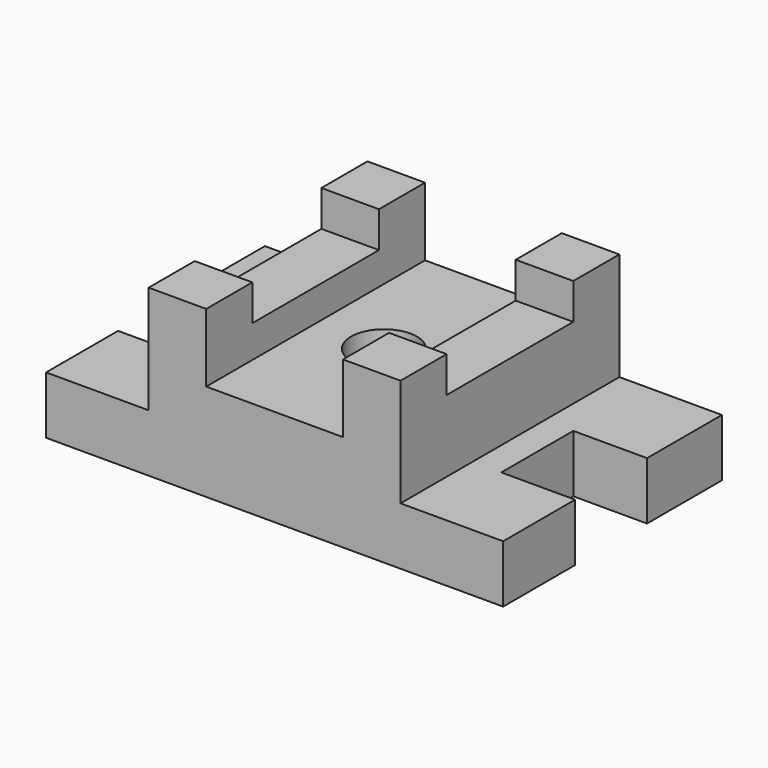
from build123d import *

# Parameters (mm, degrees)
F0_W      = 129.032
F0_H      = 77.216
F1_DEPTH  = 46.736
F2_W      = 28.956
F2_H      = 77.216
F3_DEPTH  = 30.48
F4_DEPTH  = 30.48
F5_W      = 38.608
F5_H      = 77.216
F6_DEPTH  = 19.304
F7_W      = 16.256
F7_H      = 44.704
F8_DEPTH  = 10.16
F9_W      = 16.256
F9_H      = 44.704
F10_DEPTH = 10.16
F11_W     = 20.828
F11_H     = 25.4
F12_DEPTH = 16.256
F13_W     = 20.828
F13_H     = 25.4
F14_DEPTH = 16.256
F15_R     = 9.294424
F16_DEPTH = 16.256


with BuildPart() as f1:
    # F0 (on Top) → F1 (new body)
    with BuildSketch(Plane.XY):
        with Locations((1.073599, 0.463698)):
            Rectangle(F0_W, F0_H)
    extrude(amount=F1_DEPTH)

    # F2 (on face) → F3 (cut)
    with BuildSketch(Plane.XY.offset(46.736)):
        with Locations((-48.964401, 0.463698)):
            Rectangle(F2_W, F2_H)
    extrude(amount=-F3_DEPTH, mode=Mode.SUBTRACT)

    # F2 (on face) → F4 (cut)
    with BuildSketch(Plane.XY.offset(46.736)):
        with Locations((51.111599, 0.463698)):
            Rectangle(F2_W, F2_H)
    extrude(amount=-F4_DEPTH, mode=Mode.SUBTRACT)

    # F5 (on face) → F6 (cut)
    with BuildSketch(Plane.XY.offset(46.736)):
        with Locations((1.073599, 0.463698)):
            Rectangle(F5_W, F5_H)
    extrude(amount=-F6_DEPTH, mode=Mode.SUBTRACT)

    # F7 (on face) → F8 (cut)
    with BuildSketch(Plane.XY.offset(46.736)):
        with Locations((-26.358401, 0.463698)):
            Rectangle(F7_W, F7_H)
    extrude(amount=-F8_DEPTH, mode=Mode.SUBTRACT)

    # F9 (on face) → F10 (cut)
    with BuildSketch(Plane.XY.offset(46.736)):
        with Locations((28.505599, 0.463698)):
            Rectangle(F9_W, F9_H)
    extrude(amount=-F10_DEPTH, mode=Mode.SUBTRACT)

    # F11 (on face) → F12 (cut)
    with BuildSketch(Plane.XY.offset(16.256)):
        with Locations((55.175599, -0.044302)):
            Rectangle(F11_W, F11_H)
    extrude(amount=-F12_DEPTH, mode=Mode.SUBTRACT)

    # F13 (on face) → F14 (cut)
    with BuildSketch(Plane.XY.offset(16.256)):
        with Locations((-53.028401, -0.044302)):
            Rectangle(F13_W, F13_H)
    extrude(amount=-F14_DEPTH, mode=Mode.SUBTRACT)

    # F15 (on face) → F16 (cut)
    with BuildSketch(Plane.XY.offset(27.432)):
        with Locations((1.073599, 0.463698)):
            Circle(F15_R)
    extrude(amount=-F16_DEPTH, mode=Mode.SUBTRACT)


solid = f1.part
